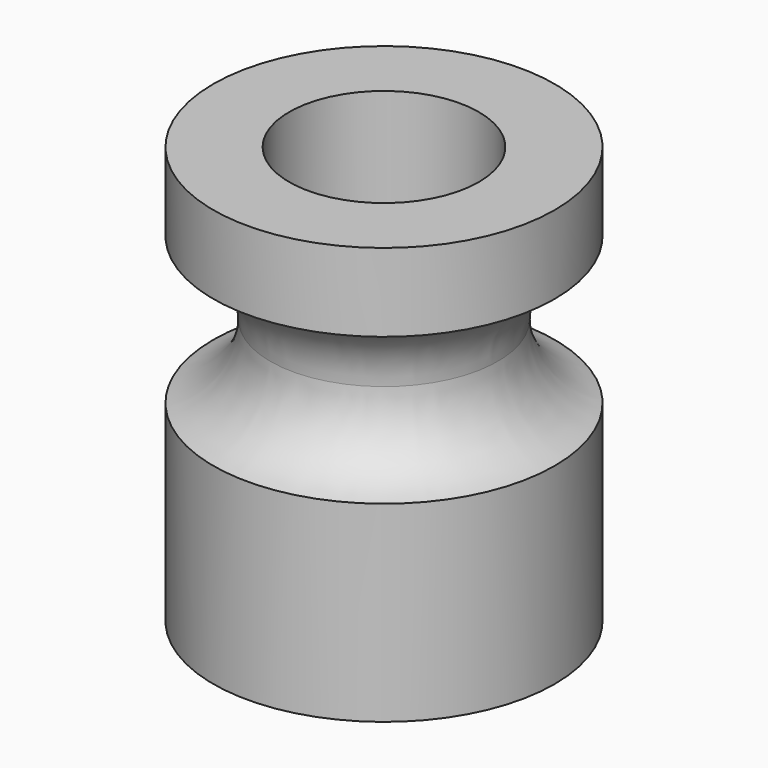
from build123d import *

# Parameters (mm, degrees)
F1_R     = 4.5
F1_R_2   = 2.5
F2_DEPTH = 11
F3_R     = 2


with BuildPart() as f2:
    # F1 (on Top) → F2 (new body)
    with BuildSketch(Plane.XY):
        Circle(F1_R)
        Circle(F1_R_2, mode=Mode.SUBTRACT)
    extrude(amount=F2_DEPTH)

    # F3 (on Front) → F4 (revolve, cut)
    with BuildSketch(Plane.XZ):
        with Locations((-5, 7)):
            Circle(F3_R)
    revolve(axis=Axis((0, 0, 11), (0, 0, 1)), mode=Mode.SUBTRACT)


solid = f2.part
